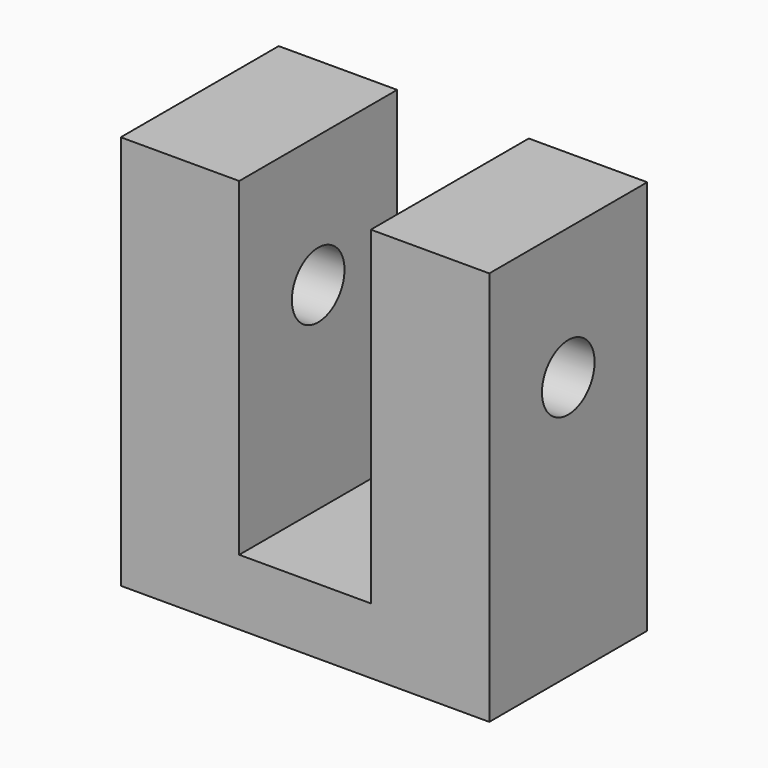
from build123d import *

# Parameters (mm, degrees)
F1_DEPTH = 19.05
F3_D     = 6.35
F3_DEPTH = 12.7
F3_TIP   = 1.9077324654
F5_D     = 6.35


with BuildPart() as f1:
    # F0 (on Front) → F1 (new body)
    with BuildSketch(Plane.XZ):
        Polygon((-17.78, 12.7), (-17.78, -25.4), (17.78, -25.4), (17.78, 12.7), (6.35, 12.7), (6.35, -19.05), (-6.35, -19.05), (-6.35, 12.7), align=None)
    extrude(amount=F1_DEPTH)

    # F3
    with Locations(Plane(origin=(0, 0, -25.4), x_dir=(1, 0, 0), z_dir=(0, 0, -1))):
        with Locations((-13.0048, 12.7), (13.0048, 12.7)):
            Hole(F3_D / 2, depth=F3_DEPTH)
            with Locations((0, 0, -(F3_DEPTH + F3_TIP / 2))):  # 118° drill point
                Cone(0, F3_D / 2, F3_TIP, mode=Mode.SUBTRACT)

    # F5 (through all)
    with Locations(Plane.YZ.offset(17.78)):
        with Locations((-9.525, 0)):
            Hole(F5_D / 2)


solid = f1.part
